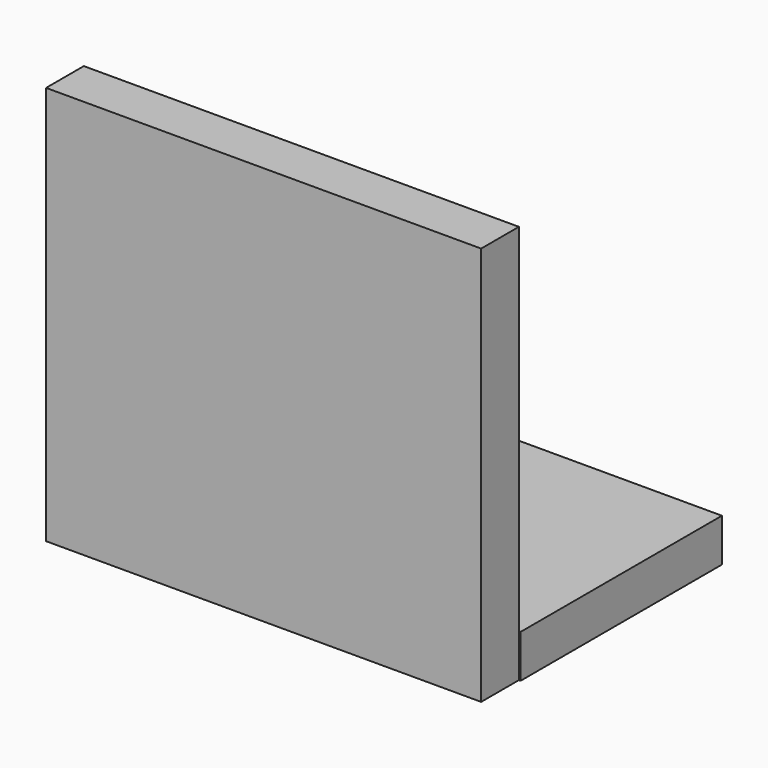
from build123d import *

# Parameters (mm, degrees)
F0_W     = 63.920457
F0_H     = 36.818182
F0_R     = 12.305973
F1_DEPTH = 6.3
F2_W     = 63.664775
F2_H     = 6.90341
F3_DEPTH = 58.4


with BuildPart() as f1:
    # F0 (on Top) → F1 (new body)
    with BuildSketch(Plane.XY):
        with Locations((-0.127842, 1.150568)):
            Rectangle(F0_W, F0_H)
        Circle(F0_R, mode=Mode.SUBTRACT)
    extrude(amount=F1_DEPTH)

    # F2 (on face) → F3 (join)
    with BuildSketch(Plane(origin=(0, 0, 0), x_dir=(1, 0, 0), z_dir=(0, 0, -1))):
        with Locations((-0.255683, 20.710228)):
            Rectangle(F2_W, F2_H)
    extrude(amount=-F3_DEPTH)


solid = f1.part
